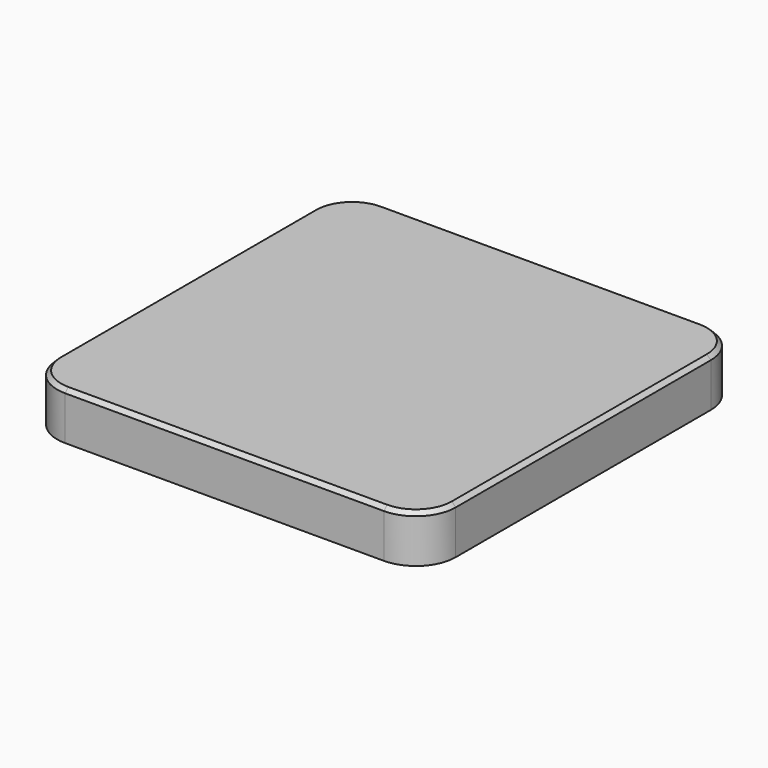
from build123d import *

# Parameters (mm, degrees)
F1_DEPTH = 12
F2_SIZE  = 1


with BuildPart() as f1:
    # F0 (on Top) → F1 (new body)
    with BuildSketch(Plane.XY):
        with BuildLine():
            ThreePointArc((50, 40), (47.071068, 47.071068), (40, 50))
            Line((40, 50), (-40, 50))
            ThreePointArc((-40, 50), (-47.071068, 47.071068), (-50, 40))
            Line((-50, 40), (-50, -40))
            ThreePointArc((-50, -40), (-47.071068, -47.071068), (-40, -50))
            Line((-40, -50), (40, -50))
            ThreePointArc((40, -50), (47.071068, -47.071068), (50, -40))
            Line((50, -40), (50, 40))
        make_face()
    extrude(amount=F1_DEPTH)

    # F2
    f2_edges = [f1.edges().sort_by_distance(p)[0] for p in [
        (47.071068, 47.071068, 12),
        (0, 50, 12),
        (-47.071068, 47.071068, 12),
        (-50, 0, 12),
        (-47.071068, -47.071068, 12),
        (0, -50, 12),
        (47.071068, -47.071068, 12),
        (50, 0, 12),
    ]]
    chamfer(f2_edges, length=F2_SIZE)


solid = f1.part
